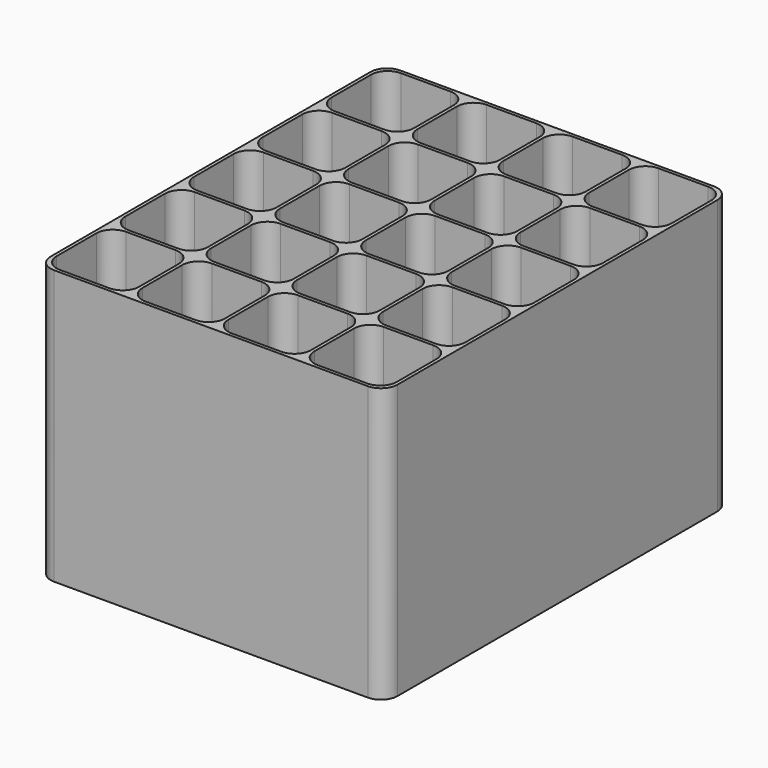
from build123d import *

# Parameters (mm, degrees)
F1_DEPTH = 80
F2_DEPTH = 3


with BuildPart() as f1:
    # F0 (on Top) → F1 (new body)
    with BuildSketch(Plane.XY):
        with BuildLine():
            ThreePointArc((-1, 4), (0.4644660941, 0.4644660941), (4, -1))
            Line((4, -1), (99, -1))
            ThreePointArc((99, -1), (102.5355339059, 0.4644660941), (104, 4))
            Line((104, 4), (104, 125))
            ThreePointArc((104, 125), (102.5355339059, 128.5355339059), (99, 130))
            Line((99, 130), (4, 130))
            ThreePointArc((4, 130), (0.4644660941, 128.5355339059), (-1, 125))
            Line((-1, 125), (-1, 4))
        make_face()
        with BuildLine():
            Line((20, 0), (5, 0))
            ThreePointArc((5, 0), (1.4644660941, 1.4644660941), (0, 5))
            Line((0, 5), (0, 20))
            ThreePointArc((0, 20), (1.4644660941, 23.5355339059), (5, 25))
            Line((5, 25), (20, 25))
            ThreePointArc((20, 25), (23.5355339059, 23.5355339059), (25, 20))
            Line((25, 20), (25, 5))
            ThreePointArc((25, 5), (23.5355339059, 1.4644660941), (20, 0))
        make_face(mode=Mode.SUBTRACT)
        with BuildLine():
            Line((51, 20), (51, 5))
            ThreePointArc((51, 5), (49.5355339059, 1.4644660941), (46, 0))
            Line((46, 0), (31, 0))
            ThreePointArc((31, 0), (27.4644660941, 1.4644660941), (26, 5))
            Line((26, 5), (26, 20))
            ThreePointArc((26, 20), (27.4644660941, 23.5355339059), (31, 25))
            Line((31, 25), (46, 25))
            ThreePointArc((46, 25), (49.5355339059, 23.5355339059), (51, 20))
        make_face(mode=Mode.SUBTRACT)
        with BuildLine():
            Line((25, 46), (25, 31))
            ThreePointArc((25, 31), (23.5355339059, 27.4644660941), (20, 26))
            Line((20, 26), (5, 26))
            ThreePointArc((5, 26), (1.4644660941, 27.4644660941), (0, 31))
            Line((0, 31), (0, 46))
            ThreePointArc((0, 46), (1.4644660941, 49.5355339059), (5, 51))
            Line((5, 51), (20, 51))
            ThreePointArc((20, 51), (23.5355339059, 49.5355339059), (25, 46))
        make_face(mode=Mode.SUBTRACT)
        with BuildLine():
            Line((51, 46), (51, 31))
            ThreePointArc((51, 31), (49.5355339059, 27.4644660941), (46, 26))
            Line((46, 26), (31, 26))
            ThreePointArc((31, 26), (27.4644660941, 27.4644660941), (26, 31))
            Line((26, 31), (26, 46))
            ThreePointArc((26, 46), (27.4644660941, 49.5355339059), (31, 51))
            Line((31, 51), (46, 51))
            ThreePointArc((46, 51), (49.5355339059, 49.5355339059), (51, 46))
        make_face(mode=Mode.SUBTRACT)
        with BuildLine():
            Line((77, 20), (77, 5))
            ThreePointArc((77, 5), (75.5355339059, 1.4644660941), (72, 0))
            Line((72, 0), (57, 0))
            ThreePointArc((57, 0), (53.4644660941, 1.4644660941), (52, 5))
            Line((52, 5), (52, 20))
            ThreePointArc((52, 20), (53.4644660941, 23.5355339059), (57, 25))
            Line((57, 25), (72, 25))
            ThreePointArc((72, 25), (75.5355339059, 23.5355339059), (77, 20))
        make_face(mode=Mode.SUBTRACT)
        with BuildLine():
            Line((103, 20), (103, 5))
            ThreePointArc((103, 5), (101.5355339059, 1.4644660941), (98, 0))
            Line((98, 0), (83, 0))
            ThreePointArc((83, 0), (79.4644660941, 1.4644660941), (78, 5))
            Line((78, 5), (78, 20))
            ThreePointArc((78, 20), (79.4644660941, 23.5355339059), (83, 25))
            Line((83, 25), (98, 25))
            ThreePointArc((98, 25), (101.5355339059, 23.5355339059), (103, 20))
        make_face(mode=Mode.SUBTRACT)
        with BuildLine():
            Line((77, 46), (77, 31))
            ThreePointArc((77, 31), (75.5355339059, 27.4644660941), (72, 26))
            Line((72, 26), (57, 26))
            ThreePointArc((57, 26), (53.4644660941, 27.4644660941), (52, 31))
            Line((52, 31), (52, 46))
            ThreePointArc((52, 46), (53.4644660941, 49.5355339059), (57, 51))
            Line((57, 51), (72, 51))
            ThreePointArc((72, 51), (75.5355339059, 49.5355339059), (77, 46))
        make_face(mode=Mode.SUBTRACT)
        with BuildLine():
            Line((103, 46), (103, 31))
            ThreePointArc((103, 31), (101.5355339059, 27.4644660941), (98, 26))
            Line((98, 26), (83, 26))
            ThreePointArc((83, 26), (79.4644660941, 27.4644660941), (78, 31))
            Line((78, 31), (78, 46))
            ThreePointArc((78, 46), (79.4644660941, 49.5355339059), (83, 51))
            Line((83, 51), (98, 51))
            ThreePointArc((98, 51), (101.5355339059, 49.5355339059), (103, 46))
        make_face(mode=Mode.SUBTRACT)
        with BuildLine():
            Line((25, 72), (25, 57))
            ThreePointArc((25, 57), (23.5355339059, 53.4644660941), (20, 52))
            Line((20, 52), (5, 52))
            ThreePointArc((5, 52), (1.4644660941, 53.4644660941), (0, 57))
            Line((0, 57), (0, 72))
            ThreePointArc((0, 72), (1.4644660941, 75.5355339059), (5, 77))
            Line((5, 77), (20, 77))
            ThreePointArc((20, 77), (23.5355339059, 75.5355339059), (25, 72))
        make_face(mode=Mode.SUBTRACT)
        with BuildLine():
            Line((25, 98), (25, 83))
            ThreePointArc((25, 83), (23.5355339059, 79.4644660941), (20, 78))
            Line((20, 78), (5, 78))
            ThreePointArc((5, 78), (1.4644660941, 79.4644660941), (0, 83))
            Line((0, 83), (0, 98))
            ThreePointArc((0, 98), (1.4644660941, 101.5355339059), (5, 103))
            Line((5, 103), (20, 103))
            ThreePointArc((20, 103), (23.5355339059, 101.5355339059), (25, 98))
        make_face(mode=Mode.SUBTRACT)
        with BuildLine():
            Line((51, 72), (51, 57))
            ThreePointArc((51, 57), (49.5355339059, 53.4644660941), (46, 52))
            Line((46, 52), (31, 52))
            ThreePointArc((31, 52), (27.4644660941, 53.4644660941), (26, 57))
            Line((26, 57), (26, 72))
            ThreePointArc((26, 72), (27.4644660941, 75.5355339059), (31, 77))
            Line((31, 77), (46, 77))
            ThreePointArc((46, 77), (49.5355339059, 75.5355339059), (51, 72))
        make_face(mode=Mode.SUBTRACT)
        with BuildLine():
            Line((51, 98), (51, 83))
            ThreePointArc((51, 83), (49.5355339059, 79.4644660941), (46, 78))
            Line((46, 78), (31, 78))
            ThreePointArc((31, 78), (27.4644660941, 79.4644660941), (26, 83))
            Line((26, 83), (26, 98))
            ThreePointArc((26, 98), (27.4644660941, 101.5355339059), (31, 103))
            Line((31, 103), (46, 103))
            ThreePointArc((46, 103), (49.5355339059, 101.5355339059), (51, 98))
        make_face(mode=Mode.SUBTRACT)
        with BuildLine():
            Line((25, 124), (25, 109))
            ThreePointArc((25, 109), (23.5355339059, 105.4644660941), (20, 104))
            Line((20, 104), (5, 104))
            ThreePointArc((5, 104), (1.4644660941, 105.4644660941), (0, 109))
            Line((0, 109), (0, 124))
            ThreePointArc((0, 124), (1.4644660941, 127.5355339059), (5, 129))
            Line((5, 129), (20, 129))
            ThreePointArc((20, 129), (23.5355339059, 127.5355339059), (25, 124))
        make_face(mode=Mode.SUBTRACT)
        with BuildLine():
            Line((51, 124), (51, 109))
            ThreePointArc((51, 109), (49.5355339059, 105.4644660941), (46, 104))
            Line((46, 104), (31, 104))
            ThreePointArc((31, 104), (27.4644660941, 105.4644660941), (26, 109))
            Line((26, 109), (26, 124))
            ThreePointArc((26, 124), (27.4644660941, 127.5355339059), (31, 129))
            Line((31, 129), (46, 129))
            ThreePointArc((46, 129), (49.5355339059, 127.5355339059), (51, 124))
        make_face(mode=Mode.SUBTRACT)
        with BuildLine():
            Line((77, 72), (77, 57))
            ThreePointArc((77, 57), (75.5355339059, 53.4644660941), (72, 52))
            Line((72, 52), (57, 52))
            ThreePointArc((57, 52), (53.4644660941, 53.4644660941), (52, 57))
            Line((52, 57), (52, 72))
            ThreePointArc((52, 72), (53.4644660941, 75.5355339059), (57, 77))
            Line((57, 77), (72, 77))
            ThreePointArc((72, 77), (75.5355339059, 75.5355339059), (77, 72))
        make_face(mode=Mode.SUBTRACT)
        with BuildLine():
            Line((77, 98), (77, 83))
            ThreePointArc((77, 83), (75.5355339059, 79.4644660941), (72, 78))
            Line((72, 78), (57, 78))
            ThreePointArc((57, 78), (53.4644660941, 79.4644660941), (52, 83))
            Line((52, 83), (52, 98))
            ThreePointArc((52, 98), (53.4644660941, 101.5355339059), (57, 103))
            Line((57, 103), (72, 103))
            ThreePointArc((72, 103), (75.5355339059, 101.5355339059), (77, 98))
        make_face(mode=Mode.SUBTRACT)
        with BuildLine():
            Line((103, 72), (103, 57))
            ThreePointArc((103, 57), (101.5355339059, 53.4644660941), (98, 52))
            Line((98, 52), (83, 52))
            ThreePointArc((83, 52), (79.4644660941, 53.4644660941), (78, 57))
            Line((78, 57), (78, 72))
            ThreePointArc((78, 72), (79.4644660941, 75.5355339059), (83, 77))
            Line((83, 77), (98, 77))
            ThreePointArc((98, 77), (101.5355339059, 75.5355339059), (103, 72))
        make_face(mode=Mode.SUBTRACT)
        with BuildLine():
            Line((103, 98), (103, 83))
            ThreePointArc((103, 83), (101.5355339059, 79.4644660941), (98, 78))
            Line((98, 78), (83, 78))
            ThreePointArc((83, 78), (79.4644660941, 79.4644660941), (78, 83))
            Line((78, 83), (78, 98))
            ThreePointArc((78, 98), (79.4644660941, 101.5355339059), (83, 103))
            Line((83, 103), (98, 103))
            ThreePointArc((98, 103), (101.5355339059, 101.5355339059), (103, 98))
        make_face(mode=Mode.SUBTRACT)
        with BuildLine():
            Line((77, 124), (77, 109))
            ThreePointArc((77, 109), (75.5355339059, 105.4644660941), (72, 104))
            Line((72, 104), (57, 104))
            ThreePointArc((57, 104), (53.4644660941, 105.4644660941), (52, 109))
            Line((52, 109), (52, 124))
            ThreePointArc((52, 124), (53.4644660941, 127.5355339059), (57, 129))
            Line((57, 129), (72, 129))
            ThreePointArc((72, 129), (75.5355339059, 127.5355339059), (77, 124))
        make_face(mode=Mode.SUBTRACT)
        with BuildLine():
            Line((103, 124), (103, 109))
            ThreePointArc((103, 109), (101.5355339059, 105.4644660941), (98, 104))
            Line((98, 104), (83, 104))
            ThreePointArc((83, 104), (79.4644660941, 105.4644660941), (78, 109))
            Line((78, 109), (78, 124))
            ThreePointArc((78, 124), (79.4644660941, 127.5355339059), (83, 129))
            Line((83, 129), (98, 129))
            ThreePointArc((98, 129), (101.5355339059, 127.5355339059), (103, 124))
        make_face(mode=Mode.SUBTRACT)
    extrude(amount=F1_DEPTH)

    # F0 (on Top) → F2 (join)
    with BuildSketch(Plane.XY):
        with BuildLine():
            ThreePointArc((-1, 4), (0.4644660941, 0.4644660941), (4, -1))
            Line((4, -1), (99, -1))
            ThreePointArc((99, -1), (102.5355339059, 0.4644660941), (104, 4))
            Line((104, 4), (104, 125))
            ThreePointArc((104, 125), (102.5355339059, 128.5355339059), (99, 130))
            Line((99, 130), (4, 130))
            ThreePointArc((4, 130), (0.4644660941, 128.5355339059), (-1, 125))
            Line((-1, 125), (-1, 4))
        make_face()
        with BuildLine():
            Line((20, 0), (5, 0))
            ThreePointArc((5, 0), (1.4644660941, 1.4644660941), (0, 5))
            Line((0, 5), (0, 20))
            ThreePointArc((0, 20), (1.4644660941, 23.5355339059), (5, 25))
            Line((5, 25), (20, 25))
            ThreePointArc((20, 25), (23.5355339059, 23.5355339059), (25, 20))
            Line((25, 20), (25, 5))
            ThreePointArc((25, 5), (23.5355339059, 1.4644660941), (20, 0))
        make_face(mode=Mode.SUBTRACT)
        with BuildLine():
            Line((51, 20), (51, 5))
            ThreePointArc((51, 5), (49.5355339059, 1.4644660941), (46, 0))
            Line((46, 0), (31, 0))
            ThreePointArc((31, 0), (27.4644660941, 1.4644660941), (26, 5))
            Line((26, 5), (26, 20))
            ThreePointArc((26, 20), (27.4644660941, 23.5355339059), (31, 25))
            Line((31, 25), (46, 25))
            ThreePointArc((46, 25), (49.5355339059, 23.5355339059), (51, 20))
        make_face(mode=Mode.SUBTRACT)
        with BuildLine():
            Line((25, 46), (25, 31))
            ThreePointArc((25, 31), (23.5355339059, 27.4644660941), (20, 26))
            Line((20, 26), (5, 26))
            ThreePointArc((5, 26), (1.4644660941, 27.4644660941), (0, 31))
            Line((0, 31), (0, 46))
            ThreePointArc((0, 46), (1.4644660941, 49.5355339059), (5, 51))
            Line((5, 51), (20, 51))
            ThreePointArc((20, 51), (23.5355339059, 49.5355339059), (25, 46))
        make_face(mode=Mode.SUBTRACT)
        with BuildLine():
            Line((51, 46), (51, 31))
            ThreePointArc((51, 31), (49.5355339059, 27.4644660941), (46, 26))
            Line((46, 26), (31, 26))
            ThreePointArc((31, 26), (27.4644660941, 27.4644660941), (26, 31))
            Line((26, 31), (26, 46))
            ThreePointArc((26, 46), (27.4644660941, 49.5355339059), (31, 51))
            Line((31, 51), (46, 51))
            ThreePointArc((46, 51), (49.5355339059, 49.5355339059), (51, 46))
        make_face(mode=Mode.SUBTRACT)
        with BuildLine():
            Line((77, 20), (77, 5))
            ThreePointArc((77, 5), (75.5355339059, 1.4644660941), (72, 0))
            Line((72, 0), (57, 0))
            ThreePointArc((57, 0), (53.4644660941, 1.4644660941), (52, 5))
            Line((52, 5), (52, 20))
            ThreePointArc((52, 20), (53.4644660941, 23.5355339059), (57, 25))
            Line((57, 25), (72, 25))
            ThreePointArc((72, 25), (75.5355339059, 23.5355339059), (77, 20))
        make_face(mode=Mode.SUBTRACT)
        with BuildLine():
            Line((103, 20), (103, 5))
            ThreePointArc((103, 5), (101.5355339059, 1.4644660941), (98, 0))
            Line((98, 0), (83, 0))
            ThreePointArc((83, 0), (79.4644660941, 1.4644660941), (78, 5))
            Line((78, 5), (78, 20))
            ThreePointArc((78, 20), (79.4644660941, 23.5355339059), (83, 25))
            Line((83, 25), (98, 25))
            ThreePointArc((98, 25), (101.5355339059, 23.5355339059), (103, 20))
        make_face(mode=Mode.SUBTRACT)
        with BuildLine():
            Line((77, 46), (77, 31))
            ThreePointArc((77, 31), (75.5355339059, 27.4644660941), (72, 26))
            Line((72, 26), (57, 26))
            ThreePointArc((57, 26), (53.4644660941, 27.4644660941), (52, 31))
            Line((52, 31), (52, 46))
            ThreePointArc((52, 46), (53.4644660941, 49.5355339059), (57, 51))
            Line((57, 51), (72, 51))
            ThreePointArc((72, 51), (75.5355339059, 49.5355339059), (77, 46))
        make_face(mode=Mode.SUBTRACT)
        with BuildLine():
            Line((103, 46), (103, 31))
            ThreePointArc((103, 31), (101.5355339059, 27.4644660941), (98, 26))
            Line((98, 26), (83, 26))
            ThreePointArc((83, 26), (79.4644660941, 27.4644660941), (78, 31))
            Line((78, 31), (78, 46))
            ThreePointArc((78, 46), (79.4644660941, 49.5355339059), (83, 51))
            Line((83, 51), (98, 51))
            ThreePointArc((98, 51), (101.5355339059, 49.5355339059), (103, 46))
        make_face(mode=Mode.SUBTRACT)
        with BuildLine():
            Line((25, 72), (25, 57))
            ThreePointArc((25, 57), (23.5355339059, 53.4644660941), (20, 52))
            Line((20, 52), (5, 52))
            ThreePointArc((5, 52), (1.4644660941, 53.4644660941), (0, 57))
            Line((0, 57), (0, 72))
            ThreePointArc((0, 72), (1.4644660941, 75.5355339059), (5, 77))
            Line((5, 77), (20, 77))
            ThreePointArc((20, 77), (23.5355339059, 75.5355339059), (25, 72))
        make_face(mode=Mode.SUBTRACT)
        with BuildLine():
            Line((25, 98), (25, 83))
            ThreePointArc((25, 83), (23.5355339059, 79.4644660941), (20, 78))
            Line((20, 78), (5, 78))
            ThreePointArc((5, 78), (1.4644660941, 79.4644660941), (0, 83))
            Line((0, 83), (0, 98))
            ThreePointArc((0, 98), (1.4644660941, 101.5355339059), (5, 103))
            Line((5, 103), (20, 103))
            ThreePointArc((20, 103), (23.5355339059, 101.5355339059), (25, 98))
        make_face(mode=Mode.SUBTRACT)
        with BuildLine():
            Line((51, 72), (51, 57))
            ThreePointArc((51, 57), (49.5355339059, 53.4644660941), (46, 52))
            Line((46, 52), (31, 52))
            ThreePointArc((31, 52), (27.4644660941, 53.4644660941), (26, 57))
            Line((26, 57), (26, 72))
            ThreePointArc((26, 72), (27.4644660941, 75.5355339059), (31, 77))
            Line((31, 77), (46, 77))
            ThreePointArc((46, 77), (49.5355339059, 75.5355339059), (51, 72))
        make_face(mode=Mode.SUBTRACT)
        with BuildLine():
            Line((51, 98), (51, 83))
            ThreePointArc((51, 83), (49.5355339059, 79.4644660941), (46, 78))
            Line((46, 78), (31, 78))
            ThreePointArc((31, 78), (27.4644660941, 79.4644660941), (26, 83))
            Line((26, 83), (26, 98))
            ThreePointArc((26, 98), (27.4644660941, 101.5355339059), (31, 103))
            Line((31, 103), (46, 103))
            ThreePointArc((46, 103), (49.5355339059, 101.5355339059), (51, 98))
        make_face(mode=Mode.SUBTRACT)
        with BuildLine():
            Line((25, 124), (25, 109))
            ThreePointArc((25, 109), (23.5355339059, 105.4644660941), (20, 104))
            Line((20, 104), (5, 104))
            ThreePointArc((5, 104), (1.4644660941, 105.4644660941), (0, 109))
            Line((0, 109), (0, 124))
            ThreePointArc((0, 124), (1.4644660941, 127.5355339059), (5, 129))
            Line((5, 129), (20, 129))
            ThreePointArc((20, 129), (23.5355339059, 127.5355339059), (25, 124))
        make_face(mode=Mode.SUBTRACT)
        with BuildLine():
            Line((51, 124), (51, 109))
            ThreePointArc((51, 109), (49.5355339059, 105.4644660941), (46, 104))
            Line((46, 104), (31, 104))
            ThreePointArc((31, 104), (27.4644660941, 105.4644660941), (26, 109))
            Line((26, 109), (26, 124))
            ThreePointArc((26, 124), (27.4644660941, 127.5355339059), (31, 129))
            Line((31, 129), (46, 129))
            ThreePointArc((46, 129), (49.5355339059, 127.5355339059), (51, 124))
        make_face(mode=Mode.SUBTRACT)
        with BuildLine():
            Line((77, 72), (77, 57))
            ThreePointArc((77, 57), (75.5355339059, 53.4644660941), (72, 52))
            Line((72, 52), (57, 52))
            ThreePointArc((57, 52), (53.4644660941, 53.4644660941), (52, 57))
            Line((52, 57), (52, 72))
            ThreePointArc((52, 72), (53.4644660941, 75.5355339059), (57, 77))
            Line((57, 77), (72, 77))
            ThreePointArc((72, 77), (75.5355339059, 75.5355339059), (77, 72))
        make_face(mode=Mode.SUBTRACT)
        with BuildLine():
            Line((77, 98), (77, 83))
            ThreePointArc((77, 83), (75.5355339059, 79.4644660941), (72, 78))
            Line((72, 78), (57, 78))
            ThreePointArc((57, 78), (53.4644660941, 79.4644660941), (52, 83))
            Line((52, 83), (52, 98))
            ThreePointArc((52, 98), (53.4644660941, 101.5355339059), (57, 103))
            Line((57, 103), (72, 103))
            ThreePointArc((72, 103), (75.5355339059, 101.5355339059), (77, 98))
        make_face(mode=Mode.SUBTRACT)
        with BuildLine():
            Line((103, 72), (103, 57))
            ThreePointArc((103, 57), (101.5355339059, 53.4644660941), (98, 52))
            Line((98, 52), (83, 52))
            ThreePointArc((83, 52), (79.4644660941, 53.4644660941), (78, 57))
            Line((78, 57), (78, 72))
            ThreePointArc((78, 72), (79.4644660941, 75.5355339059), (83, 77))
            Line((83, 77), (98, 77))
            ThreePointArc((98, 77), (101.5355339059, 75.5355339059), (103, 72))
        make_face(mode=Mode.SUBTRACT)
        with BuildLine():
            Line((103, 98), (103, 83))
            ThreePointArc((103, 83), (101.5355339059, 79.4644660941), (98, 78))
            Line((98, 78), (83, 78))
            ThreePointArc((83, 78), (79.4644660941, 79.4644660941), (78, 83))
            Line((78, 83), (78, 98))
            ThreePointArc((78, 98), (79.4644660941, 101.5355339059), (83, 103))
            Line((83, 103), (98, 103))
            ThreePointArc((98, 103), (101.5355339059, 101.5355339059), (103, 98))
        make_face(mode=Mode.SUBTRACT)
        with BuildLine():
            Line((77, 124), (77, 109))
            ThreePointArc((77, 109), (75.5355339059, 105.4644660941), (72, 104))
            Line((72, 104), (57, 104))
            ThreePointArc((57, 104), (53.4644660941, 105.4644660941), (52, 109))
            Line((52, 109), (52, 124))
            ThreePointArc((52, 124), (53.4644660941, 127.5355339059), (57, 129))
            Line((57, 129), (72, 129))
            ThreePointArc((72, 129), (75.5355339059, 127.5355339059), (77, 124))
        make_face(mode=Mode.SUBTRACT)
        with BuildLine():
            Line((103, 124), (103, 109))
            ThreePointArc((103, 109), (101.5355339059, 105.4644660941), (98, 104))
            Line((98, 104), (83, 104))
            ThreePointArc((83, 104), (79.4644660941, 105.4644660941), (78, 109))
            Line((78, 109), (78, 124))
            ThreePointArc((78, 124), (79.4644660941, 127.5355339059), (83, 129))
            Line((83, 129), (98, 129))
            ThreePointArc((98, 129), (101.5355339059, 127.5355339059), (103, 124))
        make_face(mode=Mode.SUBTRACT)
        with BuildLine():
            ThreePointArc((98, 0), (101.5355339059, 1.4644660941), (103, 5))
            Line((103, 5), (103, 20))
            ThreePointArc((103, 20), (101.5355339059, 23.5355339059), (98, 25))
            Line((98, 25), (83, 25))
            ThreePointArc((83, 25), (79.4644660941, 23.5355339059), (78, 20))
            Line((78, 20), (78, 5))
            ThreePointArc((78, 5), (79.4644660941, 1.4644660941), (83, 0))
            Line((83, 0), (98, 0))
        make_face()
        with BuildLine():
            ThreePointArc((20, 104), (23.5355339059, 105.4644660941), (25, 109))
            Line((25, 109), (25, 124))
            ThreePointArc((25, 124), (23.5355339059, 127.5355339059), (20, 129))
            Line((20, 129), (5, 129))
            ThreePointArc((5, 129), (1.4644660941, 127.5355339059), (0, 124))
            Line((0, 124), (0, 109))
            ThreePointArc((0, 109), (1.4644660941, 105.4644660941), (5, 104))
            Line((5, 104), (20, 104))
        make_face()
        with BuildLine():
            ThreePointArc((20, 78), (23.5355339059, 79.4644660941), (25, 83))
            Line((25, 83), (25, 98))
            ThreePointArc((25, 98), (23.5355339059, 101.5355339059), (20, 103))
            Line((20, 103), (5, 103))
            ThreePointArc((5, 103), (1.4644660941, 101.5355339059), (0, 98))
            Line((0, 98), (0, 83))
            ThreePointArc((0, 83), (1.4644660941, 79.4644660941), (5, 78))
            Line((5, 78), (20, 78))
        make_face()
        with BuildLine():
            ThreePointArc((20, 52), (23.5355339059, 53.4644660941), (25, 57))
            Line((25, 57), (25, 72))
            ThreePointArc((25, 72), (23.5355339059, 75.5355339059), (20, 77))
            Line((20, 77), (5, 77))
            ThreePointArc((5, 77), (1.4644660941, 75.5355339059), (0, 72))
            Line((0, 72), (0, 57))
            ThreePointArc((0, 57), (1.4644660941, 53.4644660941), (5, 52))
            Line((5, 52), (20, 52))
        make_face()
        with BuildLine():
            ThreePointArc((20, 26), (23.5355339059, 27.4644660941), (25, 31))
            Line((25, 31), (25, 46))
            ThreePointArc((25, 46), (23.5355339059, 49.5355339059), (20, 51))
            Line((20, 51), (5, 51))
            ThreePointArc((5, 51), (1.4644660941, 49.5355339059), (0, 46))
            Line((0, 46), (0, 31))
            ThreePointArc((0, 31), (1.4644660941, 27.4644660941), (5, 26))
            Line((5, 26), (20, 26))
        make_face()
        with BuildLine():
            ThreePointArc((46, 0), (49.5355339059, 1.4644660941), (51, 5))
            Line((51, 5), (51, 20))
            ThreePointArc((51, 20), (49.5355339059, 23.5355339059), (46, 25))
            Line((46, 25), (31, 25))
            ThreePointArc((31, 25), (27.4644660941, 23.5355339059), (26, 20))
            Line((26, 20), (26, 5))
            ThreePointArc((26, 5), (27.4644660941, 1.4644660941), (31, 0))
            Line((31, 0), (46, 0))
        make_face()
        with BuildLine():
            ThreePointArc((46, 26), (49.5355339059, 27.4644660941), (51, 31))
            Line((51, 31), (51, 46))
            ThreePointArc((51, 46), (49.5355339059, 49.5355339059), (46, 51))
            Line((46, 51), (31, 51))
            ThreePointArc((31, 51), (27.4644660941, 49.5355339059), (26, 46))
            Line((26, 46), (26, 31))
            ThreePointArc((26, 31), (27.4644660941, 27.4644660941), (31, 26))
            Line((31, 26), (46, 26))
        make_face()
        with BuildLine():
            ThreePointArc((46, 52), (49.5355339059, 53.4644660941), (51, 57))
            Line((51, 57), (51, 72))
            ThreePointArc((51, 72), (49.5355339059, 75.5355339059), (46, 77))
            Line((46, 77), (31, 77))
            ThreePointArc((31, 77), (27.4644660941, 75.5355339059), (26, 72))
            Line((26, 72), (26, 57))
            ThreePointArc((26, 57), (27.4644660941, 53.4644660941), (31, 52))
            Line((31, 52), (46, 52))
        make_face()
        with BuildLine():
            ThreePointArc((46, 78), (49.5355339059, 79.4644660941), (51, 83))
            Line((51, 83), (51, 98))
            ThreePointArc((51, 98), (49.5355339059, 101.5355339059), (46, 103))
            Line((46, 103), (31, 103))
            ThreePointArc((31, 103), (27.4644660941, 101.5355339059), (26, 98))
            Line((26, 98), (26, 83))
            ThreePointArc((26, 83), (27.4644660941, 79.4644660941), (31, 78))
            Line((31, 78), (46, 78))
        make_face()
        with BuildLine():
            ThreePointArc((46, 104), (49.5355339059, 105.4644660941), (51, 109))
            Line((51, 109), (51, 124))
            ThreePointArc((51, 124), (49.5355339059, 127.5355339059), (46, 129))
            Line((46, 129), (31, 129))
            ThreePointArc((31, 129), (27.4644660941, 127.5355339059), (26, 124))
            Line((26, 124), (26, 109))
            ThreePointArc((26, 109), (27.4644660941, 105.4644660941), (31, 104))
            Line((31, 104), (46, 104))
        make_face()
        with BuildLine():
            ThreePointArc((72, 104), (75.5355339059, 105.4644660941), (77, 109))
            Line((77, 109), (77, 124))
            ThreePointArc((77, 124), (75.5355339059, 127.5355339059), (72, 129))
            Line((72, 129), (57, 129))
            ThreePointArc((57, 129), (53.4644660941, 127.5355339059), (52, 124))
            Line((52, 124), (52, 109))
            ThreePointArc((52, 109), (53.4644660941, 105.4644660941), (57, 104))
            Line((57, 104), (72, 104))
        make_face()
        with BuildLine():
            ThreePointArc((72, 78), (75.5355339059, 79.4644660941), (77, 83))
            Line((77, 83), (77, 98))
            ThreePointArc((77, 98), (75.5355339059, 101.5355339059), (72, 103))
            Line((72, 103), (57, 103))
            ThreePointArc((57, 103), (53.4644660941, 101.5355339059), (52, 98))
            Line((52, 98), (52, 83))
            ThreePointArc((52, 83), (53.4644660941, 79.4644660941), (57, 78))
            Line((57, 78), (72, 78))
        make_face()
        with BuildLine():
            ThreePointArc((72, 52), (75.5355339059, 53.4644660941), (77, 57))
            Line((77, 57), (77, 72))
            ThreePointArc((77, 72), (75.5355339059, 75.5355339059), (72, 77))
            Line((72, 77), (57, 77))
            ThreePointArc((57, 77), (53.4644660941, 75.5355339059), (52, 72))
            Line((52, 72), (52, 57))
            ThreePointArc((52, 57), (53.4644660941, 53.4644660941), (57, 52))
            Line((57, 52), (72, 52))
        make_face()
        with BuildLine():
            ThreePointArc((72, 26), (75.5355339059, 27.4644660941), (77, 31))
            Line((77, 31), (77, 46))
            ThreePointArc((77, 46), (75.5355339059, 49.5355339059), (72, 51))
            Line((72, 51), (57, 51))
            ThreePointArc((57, 51), (53.4644660941, 49.5355339059), (52, 46))
            Line((52, 46), (52, 31))
            ThreePointArc((52, 31), (53.4644660941, 27.4644660941), (57, 26))
            Line((57, 26), (72, 26))
        make_face()
        with BuildLine():
            ThreePointArc((72, 0), (75.5355339059, 1.4644660941), (77, 5))
            Line((77, 5), (77, 20))
            ThreePointArc((77, 20), (75.5355339059, 23.5355339059), (72, 25))
            Line((72, 25), (57, 25))
            ThreePointArc((57, 25), (53.4644660941, 23.5355339059), (52, 20))
            Line((52, 20), (52, 5))
            ThreePointArc((52, 5), (53.4644660941, 1.4644660941), (57, 0))
            Line((57, 0), (72, 0))
        make_face()
        with BuildLine():
            ThreePointArc((98, 26), (101.5355339059, 27.4644660941), (103, 31))
            Line((103, 31), (103, 46))
            ThreePointArc((103, 46), (101.5355339059, 49.5355339059), (98, 51))
            Line((98, 51), (83, 51))
            ThreePointArc((83, 51), (79.4644660941, 49.5355339059), (78, 46))
            Line((78, 46), (78, 31))
            ThreePointArc((78, 31), (79.4644660941, 27.4644660941), (83, 26))
            Line((83, 26), (98, 26))
        make_face()
        with BuildLine():
            ThreePointArc((98, 52), (101.5355339059, 53.4644660941), (103, 57))
            Line((103, 57), (103, 72))
            ThreePointArc((103, 72), (101.5355339059, 75.5355339059), (98, 77))
            Line((98, 77), (83, 77))
            ThreePointArc((83, 77), (79.4644660941, 75.5355339059), (78, 72))
            Line((78, 72), (78, 57))
            ThreePointArc((78, 57), (79.4644660941, 53.4644660941), (83, 52))
            Line((83, 52), (98, 52))
        make_face()
        with BuildLine():
            ThreePointArc((98, 78), (101.5355339059, 79.4644660941), (103, 83))
            Line((103, 83), (103, 98))
            ThreePointArc((103, 98), (101.5355339059, 101.5355339059), (98, 103))
            Line((98, 103), (83, 103))
            ThreePointArc((83, 103), (79.4644660941, 101.5355339059), (78, 98))
            Line((78, 98), (78, 83))
            ThreePointArc((78, 83), (79.4644660941, 79.4644660941), (83, 78))
            Line((83, 78), (98, 78))
        make_face()
        with BuildLine():
            ThreePointArc((98, 104), (101.5355339059, 105.4644660941), (103, 109))
            Line((103, 109), (103, 124))
            ThreePointArc((103, 124), (101.5355339059, 127.5355339059), (98, 129))
            Line((98, 129), (83, 129))
            ThreePointArc((83, 129), (79.4644660941, 127.5355339059), (78, 124))
            Line((78, 124), (78, 109))
            ThreePointArc((78, 109), (79.4644660941, 105.4644660941), (83, 104))
            Line((83, 104), (98, 104))
        make_face()
        with BuildLine():
            ThreePointArc((0, 5), (1.4644660941, 1.4644660941), (5, 0))
            Line((5, 0), (20, 0))
            ThreePointArc((20, 0), (23.5355339059, 1.4644660941), (25, 5))
            Line((25, 5), (25, 20))
            ThreePointArc((25, 20), (23.5355339059, 23.5355339059), (20, 25))
            Line((20, 25), (5, 25))
            ThreePointArc((5, 25), (1.4644660941, 23.5355339059), (0, 20))
            Line((0, 20), (0, 5))
        make_face()
    extrude(amount=-F2_DEPTH)


solid = f1.part
